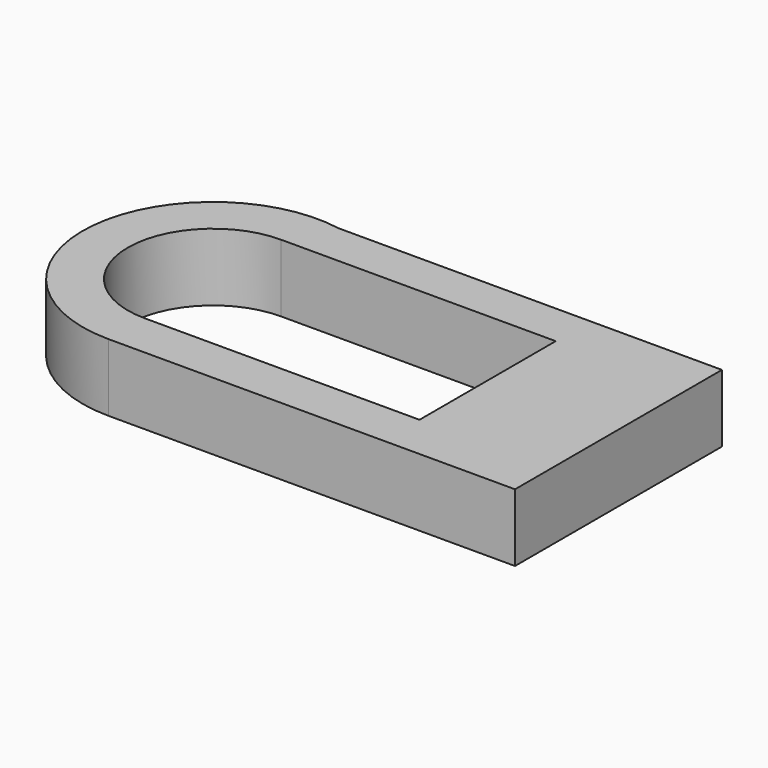
from build123d import *

# Parameters (mm, degrees)
F1_DEPTH = 12.7


with BuildPart() as f1:
    # F0 (on Top) → F1 (new body)
    with BuildSketch(Plane.XY):
        with BuildLine():
            ThreePointArc((-47.3058475157, 23.1087561697), (-76.0328855481, 1.1598869775), (-51.6270473599, -25.511270389))
            Line((-51.6270473599, -25.511270389), (-51.6270473599, -17.0142557472))
            ThreePointArc((-51.6270473599, -17.0142557472), (-67.6320735365, -1.0092295706), (-51.6270473599, 14.9957966059))
            Line((-51.6270473599, 14.9957966059), (-51.6270473599, 23.1087561697))
            Line((-51.6270473599, 23.1087561697), (-47.3058475157, 23.1087561697))
        make_face()
        with BuildLine():
            ThreePointArc((-33.0747121606, -17.0142557472), (-41.4242487344, -23.2859641713), (-51.6270473599, -25.511270389))
            Line((-51.6270473599, -25.511270389), (24.7534979135, -25.511270389))
            Line((24.7534979135, -25.511270389), (24.7534979135, 23.1087561697))
            Line((24.7534979135, 23.1087561697), (-47.3058475157, 23.1087561697))
            ThreePointArc((-47.3058475157, 23.1087561697), (-39.4921934437, 20.2768063378), (-33.0747121606, 14.9957966059))
            Line((-33.0747121606, 14.9957966059), (0, 14.9957966059))
            Line((0, 14.9957966059), (0, -17.0142557472))
            Line((0, -17.0142557472), (-33.0747121606, -17.0142557472))
        make_face()
        with BuildLine():
            Line((-51.6270473599, -17.0142557472), (-51.6270473599, -25.511270389))
            ThreePointArc((-51.6270473599, -25.511270389), (-41.4242487344, -23.2859641713), (-33.0747121606, -17.0142557472))
            Line((-33.0747121606, -17.0142557472), (-51.6270473599, -17.0142557472))
        make_face()
        with BuildLine():
            ThreePointArc((-33.0747121606, 14.9957966059), (-39.4921934437, 20.2768063378), (-47.3058475157, 23.1087561697))
            Line((-47.3058475157, 23.1087561697), (-51.6270473599, 23.1087561697))
            Line((-51.6270473599, 23.1087561697), (-51.6270473599, 14.9957966059))
            Line((-51.6270473599, 14.9957966059), (-33.0747121606, 14.9957966059))
        make_face()
    extrude(amount=F1_DEPTH)


solid = f1.part
